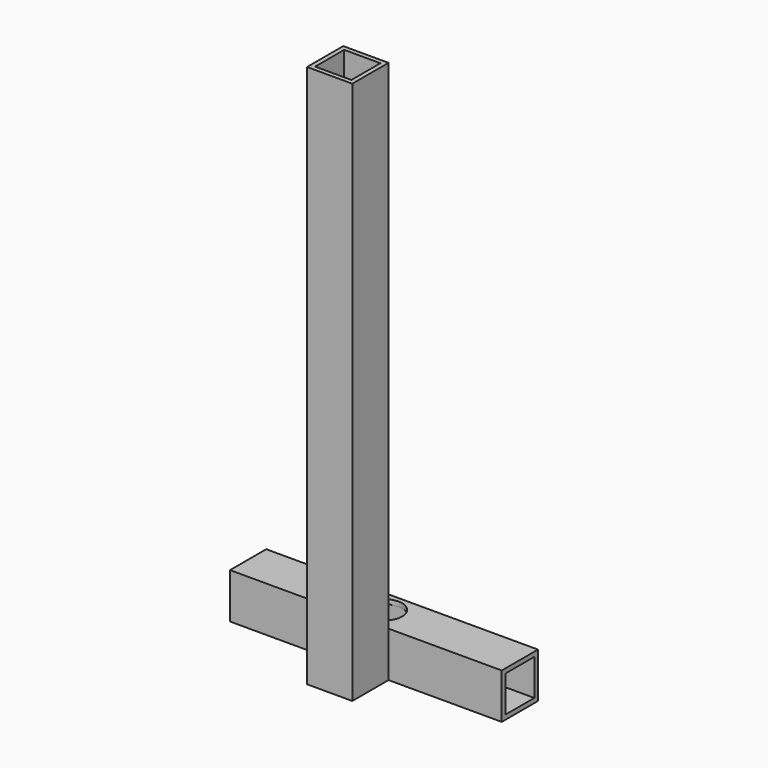
from build123d import *

# Parameters (mm, degrees)
F0_W     = 76.2
F0_H     = 12.7
F1_DEPTH = 12.7
F2_W     = 10.16
F2_H     = 10.16
F3_DEPTH = 76.201
F4_R     = 5.08
F5_DEPTH = 1.27
F6_W     = 12.7
F6_H     = 152.4
F7_DEPTH = 12.7
F8_W     = 10.16
F8_H     = 10.16
F9_DEPTH = 152.401


with BuildPart() as f1:
    # F0 (on Top) → F1 (new body)
    with BuildSketch(Plane.XY):
        with Locations((38.1, 6.35)):
            Rectangle(F0_W, F0_H)
    extrude(amount=F1_DEPTH)

    # F2 (on face) → F3 (cut, through all)
    with BuildSketch(Plane.YZ.offset(76.2)):
        with Locations((6.35, 6.35)):
            Rectangle(F2_W, F2_H)
    extrude(amount=-F3_DEPTH, mode=Mode.SUBTRACT)

    # F4 (on face) → F5 (cut, through all)
    with BuildSketch(Plane.XY.offset(12.7)):
        with Locations((38.1, 6.35)):
            Circle(F4_R)
    extrude(amount=-F5_DEPTH, mode=Mode.SUBTRACT)

    # F6 (on face) → F7 (join)
    with BuildSketch(Plane.XZ):
        with Locations((38.1, 76.2)):
            Rectangle(F6_W, F6_H)
    extrude(amount=F7_DEPTH)

    # F8 (on face) → F9 (cut, through all)
    with BuildSketch(Plane.XY.offset(152.4)):
        with Locations((38.1, -6.35)):
            Rectangle(F8_W, F8_H)
    extrude(amount=-F9_DEPTH, mode=Mode.SUBTRACT)


solid = f1.part
